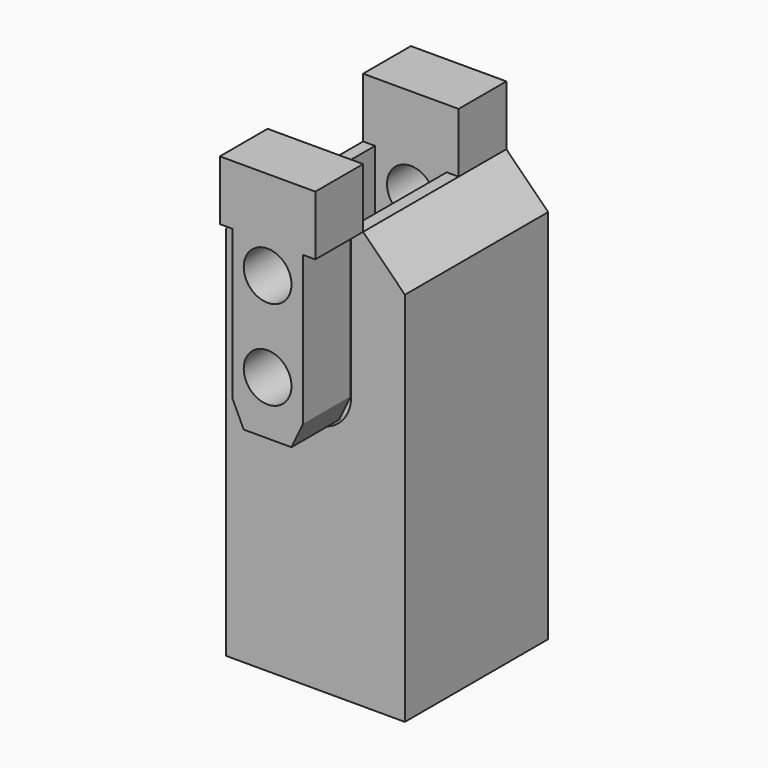
from build123d import *

# Parameters (mm, degrees)
F0_W      = 30
F0_H      = 30
F1_DEPTH  = 80
F2_W      = 20
F2_H      = 10
F3_DEPTH  = 30.001
F4_W      = 7
F4_H      = 10
F5_DEPTH  = 30.001
F7_DEPTH  = 30.001
F8_W      = 12
F8_H      = 25
F9_DEPTH  = 20
F11_D     = 8
F13_DEPTH = 10
F14_D     = 8


with BuildPart() as f1:
    # F0 (on Top) → F1 (new body)
    with BuildSketch(Plane.XY):
        Rectangle(F0_W, F0_H)
    extrude(amount=F1_DEPTH)

    # F2 (on face) → F3 (cut, through all)
    with BuildSketch(Plane.YZ.offset(15)):
        with Locations((-5, 75)):
            Rectangle(F2_W, F2_H)
    extrude(amount=-F3_DEPTH, mode=Mode.SUBTRACT)

    # F4 (on face) → F5 (cut, through all)
    with BuildSketch(Plane(origin=(0, 15, 0), x_dir=(-1, 0, 0), z_dir=(0, 1, 0))):
        with Locations((-11.5, 75)):
            Rectangle(F4_W, F4_H)
        with Locations((11.5, 75)):
            Rectangle(F4_W, F4_H)
    extrude(amount=-F5_DEPTH, mode=Mode.SUBTRACT)

    # F6 (on face) → F7 (cut, through all)
    with BuildSketch(Plane.XZ.offset(15)):
        Polygon((15, 70), (8, 70), (15, 63), align=None)
        Polygon((-15, 63), (-8, 70), (-15, 70), align=None)
    extrude(amount=-F7_DEPTH, mode=Mode.SUBTRACT)

    # F8 (on face) → F9 (cut)
    with BuildSketch(Plane.XZ.offset(15)):
        with Locations((0, 57.5)):
            Rectangle(F8_W, F8_H)
        with BuildLine():
            Line((6, 45), (-6, 45))
            ThreePointArc((-6, 45), (0, 39), (6, 45))
        make_face()
    extrude(amount=-F9_DEPTH, mode=Mode.SUBTRACT)

    # F11 (through all)
    with Locations(Plane.XZ.offset(-5)):
        with Locations((0, 65), (0, 50)):
            Hole(F11_D / 2)


with BuildPart() as f13:
    # F12 (on face) → F13 (new body)
    with BuildSketch(Plane.XZ.offset(15)):
        Polygon((-8, 80), (-8, 70), (-5.9, 70), (-5.9, 45), (5.9, 45), (5.9, 70), (8, 70), (8, 80), align=None)
        Polygon((5.9, 45), (-5.9, 45), (-4, 41), (4, 41), align=None)
    extrude(amount=F13_DEPTH)

    # F14 (through all)
    with Locations(Plane(origin=(0, 5, 0), x_dir=(1, 0, 0), z_dir=(0, 1, 0))):
        with Locations((0, -65), (0, -50)):
            Hole(F14_D / 2)


solid = Compound([f1.part, f13.part])
